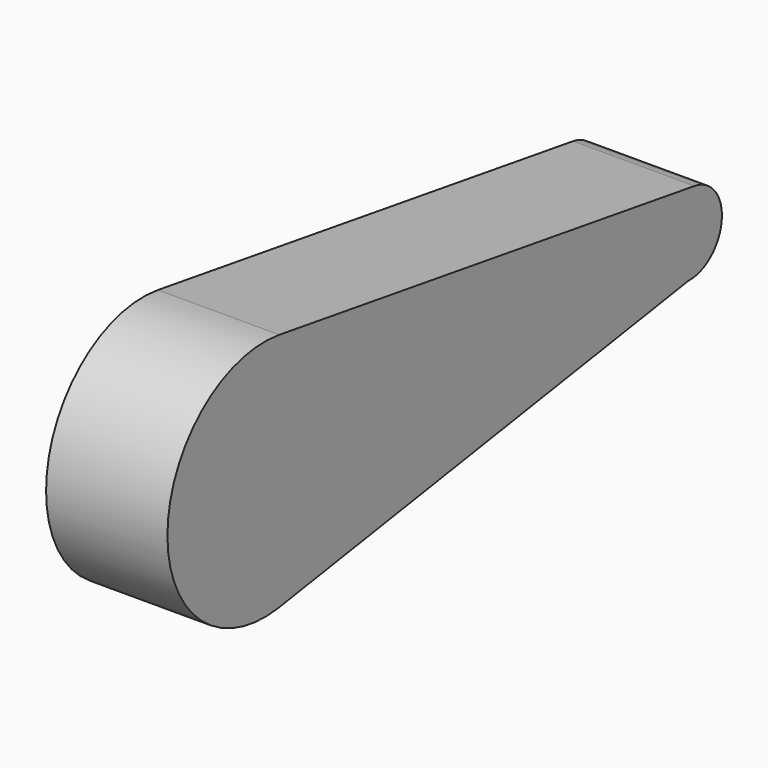
from build123d import *

# Parameters (mm, degrees)
F1_DEPTH = 75


with BuildPart() as f1:
    # F0 (on Right) → F1 (new body)
    with BuildSketch(Plane.YZ):
        with BuildLine():
            ThreePointArc((11.518163, -74.110269), (56.959908, -48.791074), (75, 0))
            ThreePointArc((75, 0), (56.926894, 48.829589), (11.417899, 74.125782))
            ThreePointArc((11.417899, 74.125782), (-74.999983, -0.050728), (11.518163, -74.110269))
        make_face()
        with BuildLine():
            ThreePointArc((11.417899, 74.125782), (56.926894, 48.829589), (75, 0))
            ThreePointArc((75, 0), (56.959908, -48.791074), (11.518163, -74.110269))
            Line((11.518163, -74.110269), (327.594186, -24.985968))
            ThreePointArc((327.594186, -24.985968), (303.540125, 2.325877), (332.237662, 24.708594))
            Line((332.237662, 24.708594), (11.417899, 74.125782))
        make_face()
        with BuildLine():
            ThreePointArc((353.431696, 0), (347.407327, 16.27653), (332.237662, 24.708594))
            ThreePointArc((332.237662, 24.708594), (303.540125, 2.325877), (327.594186, -24.985968))
            ThreePointArc((327.594186, -24.985968), (345.810739, -17.971335), (353.431696, 0))
        make_face()
    extrude(amount=F1_DEPTH)


solid = f1.part
